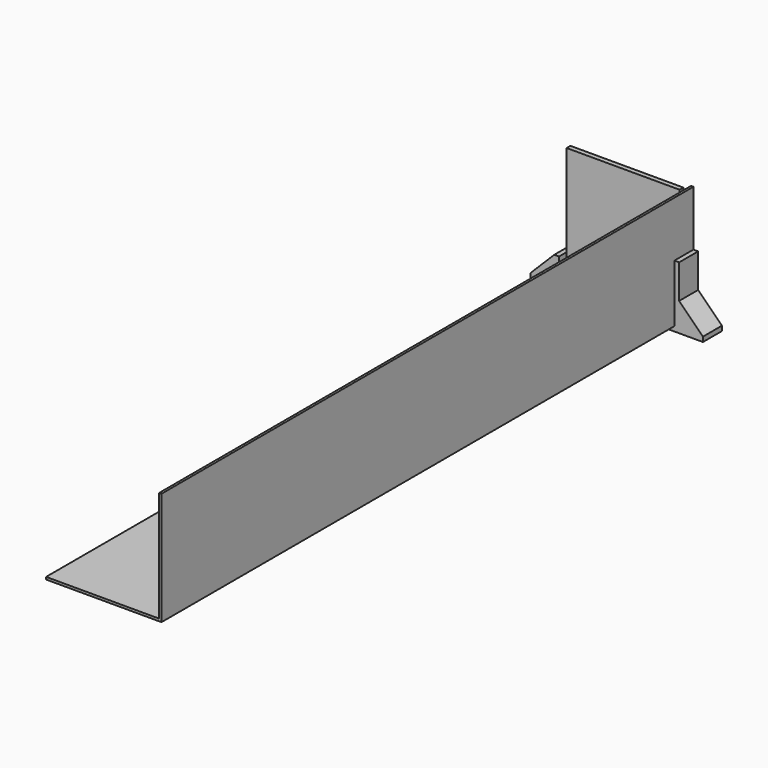
from build123d import *

# Parameters (mm, degrees)
F0_W     = 10
F0_H     = 50
F1_DEPTH = 50
F3_W     = 238
F3_H     = 238
F4_DEPTH = 10
F5_W     = 238
F5_H     = 5
F6_DEPTH = 1400


with BuildPart() as f1:
    # F0 (on Front) → F1 (new body)
    with BuildSketch(Plane.XZ):
        with Locations((-147.046215, -129.149129)):
            Rectangle(F0_W, F0_H)
        Polygon((100.953785, -154.149129), (-142.046215, -154.149129), (-152.046215, -154.149129), (-202.046215, -154.149129), (-202.046215, -164.149129), (160.953785, -164.149129), (160.953785, -154.149129), (110.953785, -154.149129), align=None)
        Polygon((100.953785, -32.649129), (100.953785, -154.149129), (110.953785, -154.149129), (110.953785, -104.149129), (110.953785, -32.649129), align=None)
        Polygon((-202.046215, -154.149129), (-152.046215, -154.149129), (-152.046215, -104.149129), align=None)
        Polygon((110.953785, -104.149129), (110.953785, -154.149129), (160.953785, -154.149129), align=None)
    extrude(amount=F1_DEPTH)


with BuildPart() as f4:
    # F3 (on offset) → F4 (new body)
    with BuildSketch(Plane.XZ.offset(20)):
        with Locations((-23.046215, -30.149129)):
            Rectangle(F3_W, F3_H)
    extrude(amount=F4_DEPTH)


with BuildPart() as f6:
    # F5 (on Front) → F6 (new body)
    with BuildSketch(Plane.XZ):
        with Locations((-23.046215, -151.649129)):
            Rectangle(F5_W, F5_H)
        Polygon((95.953785, -149.149129), (95.953785, -154.149129), (100.953785, -154.149129), (100.953785, 83.850871), (95.953785, 83.850871), align=None)
    extrude(amount=F6_DEPTH)


solid = Compound([f1.part, f4.part, f6.part])
